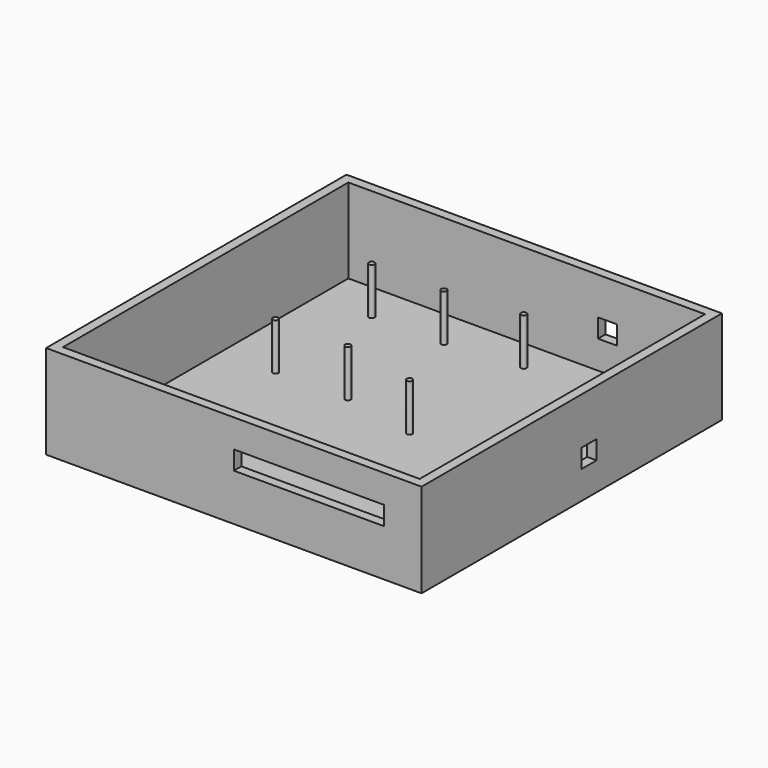
from build123d import *

# Parameters (mm, degrees)
CYLINDER007_R     = 1.5
CYLINDER007_DEPTH = 30
CYLINDER006_R     = 1.5
CYLINDER006_DEPTH = 30
CYLINDER005_R     = 1.5
CYLINDER005_DEPTH = 30
CYLINDER004_R     = 1.5
CYLINDER004_DEPTH = 30
CYLINDER003_R     = 1.5
CYLINDER003_DEPTH = 30
CYLINDER002_R     = 1.5
CYLINDER002_DEPTH = 30
CYLINDER001_R     = 1.5
CYLINDER001_DEPTH = 30
CYLINDER_R        = 1.5
CYLINDER_DEPTH    = 30
BOX003_W          = 10
BOX003_H          = 10
BOX003_DEPTH      = 10
BOX004_W          = 80
BOX004_H          = 10
BOX004_DEPTH      = 10
BOX002_W          = 10
BOX002_H          = 10
BOX002_DEPTH      = 10
BOX001_W          = 190
BOX001_H          = 190
BOX001_DEPTH      = 45
BOX_W             = 200
BOX_H             = 200
BOX_DEPTH         = 50


with BuildPart() as cylinder007:
    # Cylinder007 → Cylinder007 (new body)
    with BuildSketch(Plane(origin=(34.06, 110.24, 0), x_dir=(1, 0, 0), z_dir=(0, 0, 1))):
        Circle(CYLINDER007_R)
    extrude(amount=CYLINDER007_DEPTH)


with BuildPart() as cylinder006:
    # Cylinder006 → Cylinder006 (new body)
    with BuildSketch(Plane(origin=(34.06, 174.24, 0), x_dir=(1, 0, 0), z_dir=(0, 0, 1))):
        Circle(CYLINDER006_R)
    extrude(amount=CYLINDER006_DEPTH)


with BuildPart() as cylinder005:
    # Cylinder005 → Cylinder005 (new body)
    with BuildSketch(Plane(origin=(72.56, 174.24, 0), x_dir=(1, 0, 0), z_dir=(0, 0, 1))):
        Circle(CYLINDER005_R)
    extrude(amount=CYLINDER005_DEPTH)


with BuildPart() as cylinder004:
    # Cylinder004 → Cylinder004 (new body)
    with BuildSketch(Plane(origin=(72.56, 110.24, 0), x_dir=(1, 0, 0), z_dir=(0, 0, 1))):
        Circle(CYLINDER004_R)
    extrude(amount=CYLINDER004_DEPTH)


with BuildPart() as cylinder003:
    # Cylinder003 → Cylinder003 (new body)
    with BuildSketch(Plane(origin=(178.89, 102.19, 0), x_dir=(1, 0, 0), z_dir=(0, 0, 1))):
        Circle(CYLINDER003_R)
    extrude(amount=CYLINDER003_DEPTH)


with BuildPart() as cylinder002:
    # Cylinder002 → Cylinder002 (new body)
    with BuildSketch(Plane(origin=(178.89, 178.19, 0), x_dir=(1, 0, 0), z_dir=(0, 0, 1))):
        Circle(CYLINDER002_R)
    extrude(amount=CYLINDER002_DEPTH)


with BuildPart() as cylinder001:
    # Cylinder001 → Cylinder001 (new body)
    with BuildSketch(Plane(origin=(111.89, 178.19, 0), x_dir=(1, 0, 0), z_dir=(0, 0, 1))):
        Circle(CYLINDER001_R)
    extrude(amount=CYLINDER001_DEPTH)


with BuildPart() as cylinder:
    # Cylinder → Cylinder (new body)
    with BuildSketch(Plane(origin=(111.89, 102.19, 0), x_dir=(1, 0, 0), z_dir=(0, 0, 1))):
        Circle(CYLINDER_R)
    extrude(amount=CYLINDER_DEPTH)


with BuildPart() as cube003:
    # Box003 → Box003 (new body)
    with BuildSketch(Plane(origin=(191, 106.5, 15), x_dir=(1, 0, 0), z_dir=(0, 0, 1))):
        with Locations((5, 5)):
            Rectangle(BOX003_W, BOX003_H)
    extrude(amount=BOX003_DEPTH)


with BuildPart() as cube004:
    # Box004 → Box004 (new body)
    with BuildSketch(Plane(origin=(100, -1, 25), x_dir=(1, 0, 0), z_dir=(0, 0, 1))):
        with Locations((40, 5)):
            Rectangle(BOX004_W, BOX004_H)
    extrude(amount=BOX004_DEPTH)


with BuildPart() as fusion:
    # Box002 → Box002 (new body)
    with BuildSketch(Plane(origin=(138, 190.5, 20), x_dir=(1, 0, 0), z_dir=(0, 0, 1))):
        with Locations((5, 5)):
            Rectangle(BOX002_W, BOX002_H)
    extrude(amount=BOX002_DEPTH)

    # Fusion: union Cube003, Cube004
    add(cube003.part)
    add(cube004.part)


with BuildPart() as cube001:
    # Box001 → Box001 (new body)
    with BuildSketch(Plane(origin=(5, 5, 5), x_dir=(1, 0, 0), z_dir=(0, 0, 1))):
        with Locations((95, 95)):
            Rectangle(BOX001_W, BOX001_H)
    extrude(amount=BOX001_DEPTH)


with BuildPart() as box_bottom:
    # Box → Box (new body)
    with BuildSketch(Plane.XY):
        with Locations((100, 100)):
            Rectangle(BOX_W, BOX_H)
    extrude(amount=BOX_DEPTH)

    # Cut: cut Cube001
    add(cube001.part, mode=Mode.SUBTRACT)

    # Cut001: cut Fusion
    add(fusion.part, mode=Mode.SUBTRACT)

    # Fusion001: union Cylinder007, Cylinder006, Cylinder005, Cylinder004, Cylinder003, Cylinder002, Cylinder001, Cylinder
    add(cylinder007.part)
    add(cylinder006.part)
    add(cylinder005.part)
    add(cylinder004.part)
    add(cylinder003.part)
    add(cylinder002.part)
    add(cylinder001.part)
    add(cylinder.part)


solid = box_bottom.part
